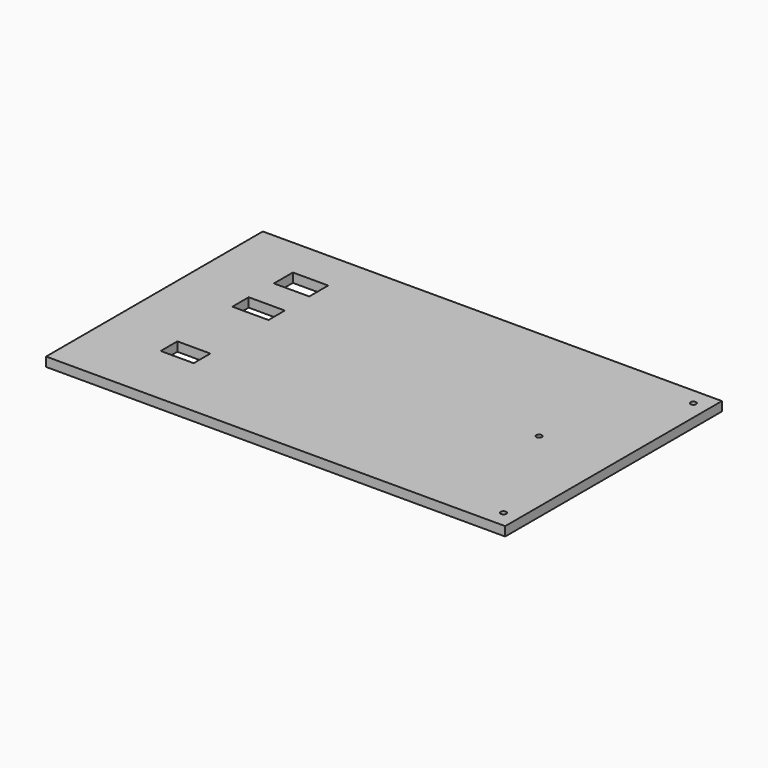
from build123d import *

# Parameters (mm, degrees)
F0_W     = 254
F0_H     = 149.86
F0_W_2   = 18.258337
F0_H_2   = 11.539348
F0_R     = 1.524
F0_W_3   = 19.967873
F0_H_3   = 11.325654
F0_W_4   = 19.540489
F0_H_4   = 13.1064
F1_DEPTH = 5.08


with BuildPart() as f1:
    # F0 (on Top) → F1 (new body)
    with BuildSketch(Plane.XY):
        with Locations((127, -74.93)):
            Rectangle(F0_W, F0_H)
        with Locations((44.538944, -109.116506)):
            Rectangle(F0_W_2, F0_H_2, mode=Mode.SUBTRACT)
        with Locations((245.618, -140.589)):
            Circle(F0_R, mode=Mode.SUBTRACT)
        with Locations((43.684175, -57.509983)):
            Rectangle(F0_W_3, F0_H_3, mode=Mode.SUBTRACT)
        with Locations((43.897868, -28.412323)):
            Rectangle(F0_W_4, F0_H_4, mode=Mode.SUBTRACT)
        with Locations((212.852, -74.93)):
            Circle(F0_R, mode=Mode.SUBTRACT)
        with Locations((245.618, -9.271)):
            Circle(F0_R, mode=Mode.SUBTRACT)
    extrude(amount=F1_DEPTH)


solid = f1.part
